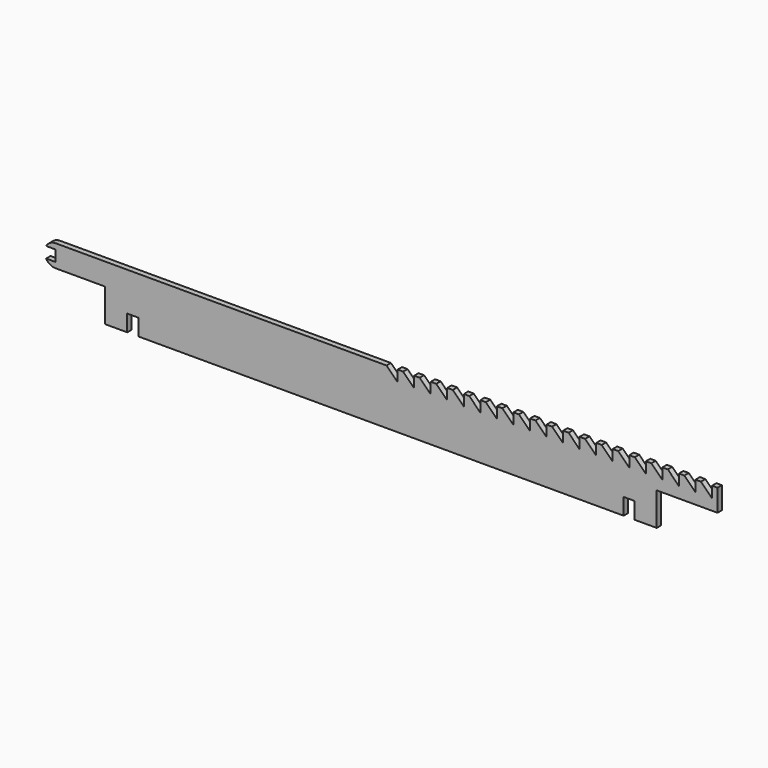
from build123d import *

# Parameters (mm, degrees)
F1_DEPTH = 6.35


with BuildPart() as f1:
    # F0 (on Front) → F1 (new body)
    with BuildSketch(Plane.XZ):
        with BuildLine():
            Line((-381, 6.35), (-381, 12.7))
            ThreePointArc((-381, 12.7), (-383.67247, 12.415631), (-386.22526, 11.57526))
            Line((-386.22526, 11.57526), (-381, 6.35))
        make_face()
        with BuildLine():
            Line((-381, -12.7), (-381, -6.35))
            Line((-381, -6.35), (-386.22526, -11.57526))
            ThreePointArc((-386.22526, -11.57526), (-383.67247, -12.415631), (-381, -12.7))
        make_face()
        with BuildLine():
            Line((-391.998523, 6.35), (-381, 6.35))
            Line((-381, 6.35), (-386.22526, 11.57526))
            ThreePointArc((-386.22526, 11.57526), (-389.522243, 9.416017), (-391.998523, 6.35))
        make_face()
        with BuildLine():
            Line((-386.22526, -11.57526), (-381, -6.35))
            Line((-381, -6.35), (-391.998523, -6.35))
            ThreePointArc((-391.998523, -6.35), (-389.522243, -9.416017), (-386.22526, -11.57526))
        make_face()
        Polygon((311.032037, -12.7), (-323.967963, -12.7), (-323.967963, -50.8), (-298.567963, -50.8), (-298.567963, -31.75), (-285.867963, -31.75), (-285.867963, -50.8), (272.932037, -50.8), (272.932037, -31.75), (285.632037, -31.75), (285.632037, -50.8), (311.032037, -50.8), align=None)
        Polygon((0, 12.7), (-381, 12.7), (-381, 6.35), (-381, -6.35), (-381, -12.7), (-323.967963, -12.7), (311.032037, -12.7), (381, -12.7), (381, 12.7), (374.65, 12.7), (374.65, 0), (361.95, 12.7), (355.6, 12.7), (355.6, 0), (342.9, 12.7), (336.55, 12.7), (336.55, 0), (323.85, 12.7), (317.5, 12.7), (317.5, 0), (304.8, 12.7), (298.45, 12.7), (298.45, 0), (285.75, 12.7), (279.4, 12.7), (279.4, 0), (266.7, 12.7), (260.35, 12.7), (260.35, 0), (247.65, 12.7), (241.3, 12.7), (241.3, 0), (228.6, 12.7), (222.25, 12.7), (222.25, 0), (209.55, 12.7), (203.2, 12.7), (203.2, 0), (190.5, 12.7), (184.15, 12.7), (184.15, 0), (171.45, 12.7), (165.1, 12.7), (165.1, 0), (152.4, 12.7), (146.05, 12.7), (146.05, 0), (133.35, 12.7), (127, 12.7), (127, 0), (114.3, 12.7), (107.95, 12.7), (107.95, 0), (95.25, 12.7), (88.9, 12.7), (88.9, 0), (76.2, 12.7), (69.85, 12.7), (69.85, 0), (57.15, 12.7), (50.8, 12.7), (50.8, 0), (38.1, 12.7), (31.75, 12.7), (31.75, 0), (19.05, 12.7), (12.7, 12.7), (12.7, 0), align=None)
    extrude(amount=F1_DEPTH)


solid = f1.part
